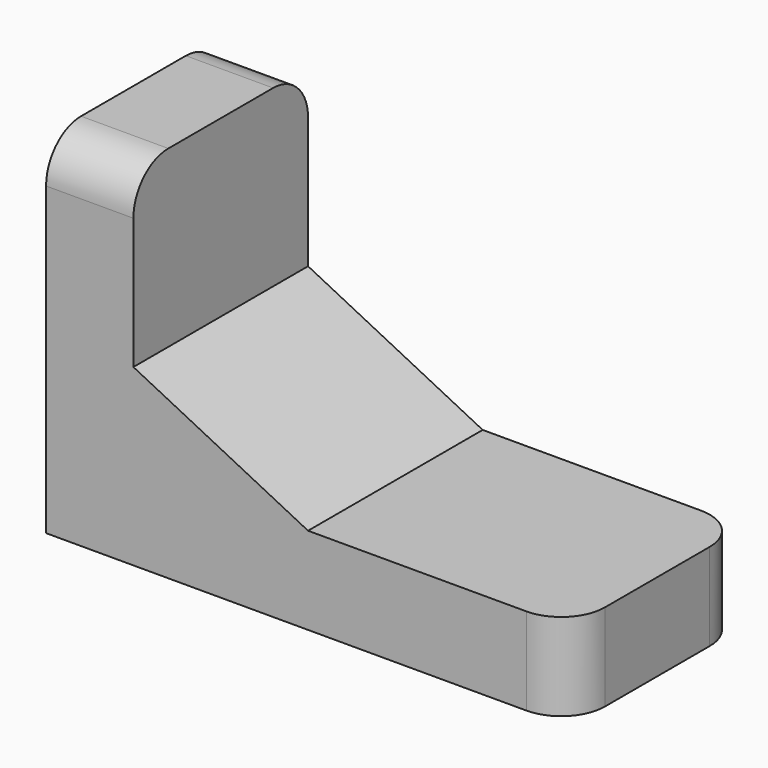
from build123d import *

# Parameters (mm, degrees)
F1_DEPTH = 25
F2_R     = 5


with BuildPart() as f1:
    # F0 (on Front) → F1 (new body)
    with BuildSketch(Plane.XZ):
        Polygon((0, 40), (0, 0), (60, 0), (60, 10), (30, 10), (10, 20), (10, 40), align=None)
    extrude(amount=F1_DEPTH)

    # F2
    f2_edges = [f1.edges().sort_by_distance(p)[0] for p in [
        (5, -25, 40),
        (5, 0, 40),
        (60, -25, 5),
        (60, 0, 5),
    ]]
    fillet(f2_edges, radius=F2_R)


solid = f1.part
